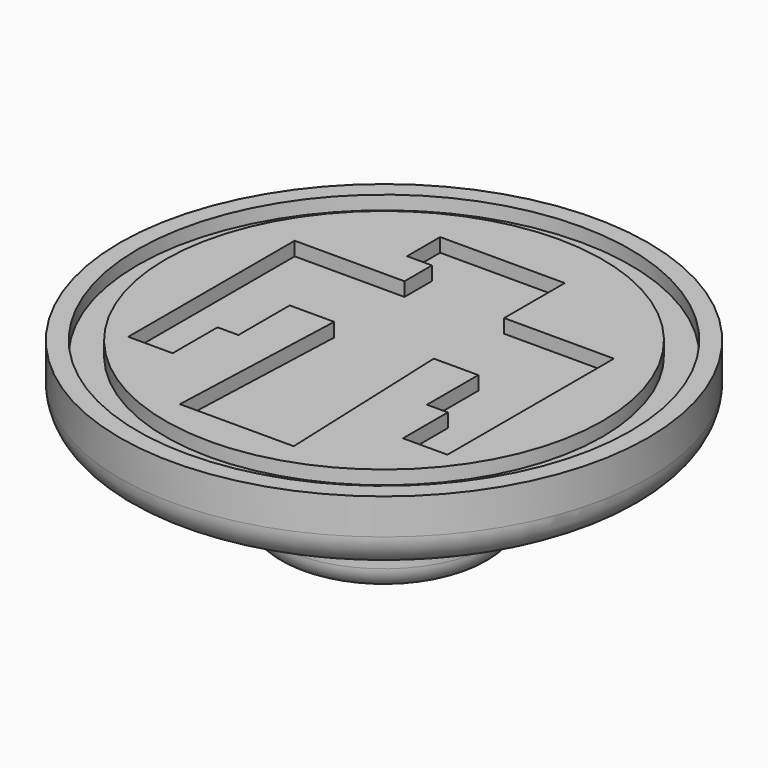
from build123d import *

# Parameters (mm, degrees)
F0_R     = 9.5631
F1_DEPTH = 2.5
F2_R     = 8.9162314004
F2_R_2   = 7.9162314004
F3_DEPTH = 0.5
F4_R     = 4
F5_DEPTH = 3.5
F6_R     = 1.2071067812
F7_R     = 2
F8_DEPTH = 3
F9_R     = 0.7966904756


with BuildPart() as f1:
    # F0 (on Top) → F1 (new body)
    with BuildSketch(Plane.XY):
        Circle(F0_R)
    extrude(amount=F1_DEPTH)

    # F2 (on face) → F3 (cut)
    with BuildSketch(Plane.XY.offset(2.5)):
        Circle(F2_R)
        Circle(F2_R_2, mode=Mode.SUBTRACT)
        Polygon((1.8036346717, 5.9258921407), (-2.7067440096, 5.9258921407), (-2.7067440096, 4.4258921407), (-1.8036346717, 4.4258921407), (-1.8036346717, 3.1822535675), (-5.7792644948, 3.1822535675), (-5.7792644948, -4.3527372181), (-4.1694175287, -4.3527372181), (-4.1694175287, -2.3218090646), (-3.4134816378, -2.3218090646), (-3.4134816378, 0), (-1.8036346717, 0), (-2.0609125495, -6.6612055525), (0, -6.6612055525), (2.0609125495, -6.6612055525), (1.8036346717, 0), (3.4134816378, 0), (3.4134816378, -2.3218090646), (4.1694175287, -2.3218090646), (4.1694175287, -4.3527372181), (5.7792644948, -4.3527372181), (5.7792644948, 3.1822535675), (1.8036346717, 3.1822535675), align=None)
    extrude(amount=-F3_DEPTH, mode=Mode.SUBTRACT)

    # F4 (on face) → F5 (join)
    with BuildSketch(Plane(origin=(0, 0, 0), x_dir=(1, 0, 0), z_dir=(0, 0, -1))):
        Circle(F4_R)
    extrude(amount=F5_DEPTH)

    # F6
    f6_edges = [f1.edges().sort_by_distance(p)[0] for p in [
        (-9.5631, 0, 0),
    ]]
    fillet(f6_edges, radius=F6_R)

    # F7 (on face) → F8 (cut)
    with BuildSketch(Plane(origin=(0, 0, -3.5), x_dir=(1, 0, 0), z_dir=(0, 0, -1))):
        Circle(F7_R)
    extrude(amount=-F8_DEPTH, mode=Mode.SUBTRACT)

    # F9
    f9_edges = [f1.edges().sort_by_distance(p)[0] for p in [
        (-4, 0, -3.5),
    ]]
    fillet(f9_edges, radius=F9_R)


solid = f1.part
